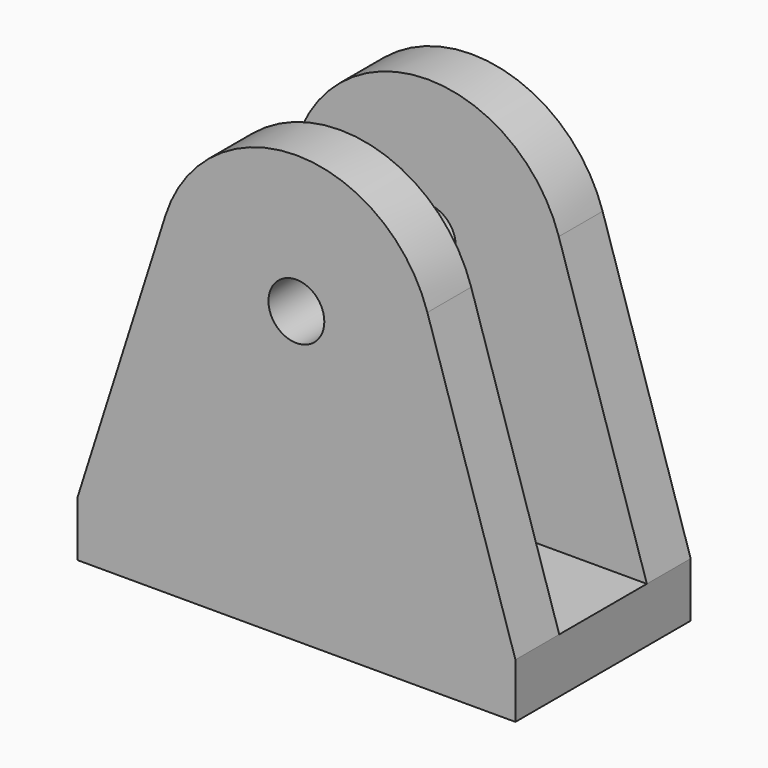
from build123d import *

# Parameters (mm, degrees)
F3_R     = 2.55
F4_DEPTH = 5
F0_W     = 40
F0_H     = 5
F5_DEPTH = 5
F6_D     = 3.2


with BuildPart() as f4:
    # F3 (on Front) → F4 (new body)
    with BuildSketch(Plane.XZ):
        with BuildLine():
            Line((0, 5), (0, 0))
            Line((0, 0), (40, 0))
            Line((40, 0), (40, 5))
            Line((40, 5), (31.9607029074, 30.3005375883))
            ThreePointArc((31.9607029074, 30.3005375883), (20, 39.05), (8.0392970926, 30.3005375883))
            Line((8.0392970926, 30.3005375883), (0, 5))
        make_face()
        with Locations((20, 26.5)):
            Circle(F3_R, mode=Mode.SUBTRACT)
    extrude(amount=F4_DEPTH)

    # F0 (on face) → F5 (join)
    with BuildSketch(Plane.XZ.offset(5)):
        with Locations((20, 2.5)):
            Rectangle(F0_W, F0_H)
    extrude(amount=F5_DEPTH)

    # F1: F4 across face


with BuildPart() as f4_1:
    add(f4.part)
    add(f4.part.mirror(Plane(origin=(20, -10, 2.5), x_dir=(1, 0, 0), z_dir=(0, -1, 0))))

    # F6 (through all)
    with Locations(Plane.XY.offset(5)):
        with Locations((10, -10), (30, -10)):
            Hole(F6_D / 2)


solid = f4_1.part
